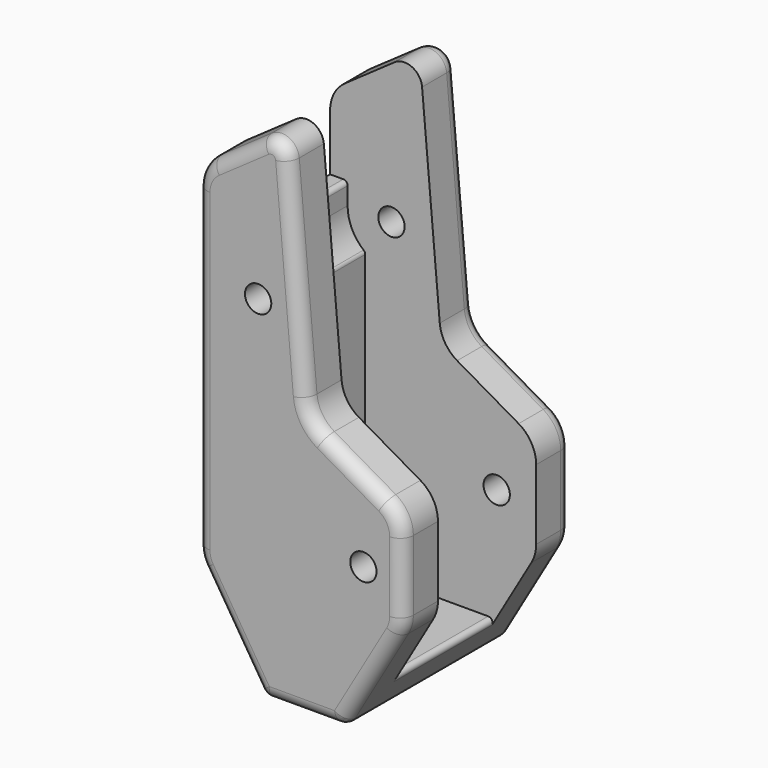
from build123d import *

# Parameters (mm, degrees)
SKETCH036_R     = 1.5
PAD021_DEPTH    = 24
FILLET007_R     = 1.5
POCKET013_DEPTH = 14
FILLET008_R     = 0.5


with BuildPart() as part:
    # Sketch036 → Pad021 (new body)
    with BuildSketch(Plane.XZ):
        with BuildLine():
            Line((-59.294306, 24.684125), (-53.647153, 28.638304))
            ThreePointArc((-50.507611, 27.174311), (-51.654763, 28.812616), (-53.647153, 28.638304))
            Line((-50.507611, 27.174311), (-48.491026, 4.124639))
            ThreePointArc((-48.491026, 4.124639), (-47.879813, 2.324063), (-46.506247, 1.00916))
            Line((-39.5, -3.035898), (-46.506247, 1.00916))
            ThreePointArc((-37.5, -6.5), (-38.035898, -4.5), (-39.5, -3.035898))
            Line((-37.5, -6.5), (-37.5, -14.5))
            ThreePointArc((-38.041032, -16.508866), (-37.637626, -15.540223), (-37.5, -14.5))
            Line((-38.041032, -16.508866), (-44.135258, -27.002216))
            ThreePointArc((-45, -27.5), (-44.501109, -27.366665), (-44.135258, -27.002216))
            Line((-45, -27.5), (-53, -27.5))
            ThreePointArc((-53.846615, -27.032205), (-53.483629, -27.375273), (-53, -27.5))
            Line((-53.846615, -27.032205), (-60.386462, -16.628821))
            ThreePointArc((-61, -14.5), (-60.843556, -15.607735), (-60.386462, -16.628821))
            Line((-61, -14.5), (-61, 21.407517))
            ThreePointArc((-59.294306, 24.684125), (-60.548043, 23.254511), (-61, 21.407517))
        make_face()
        with Locations((-54, 12.5)):
            Circle(SKETCH036_R, mode=Mode.SUBTRACT)
        with Locations((-42, -10.5)):
            Circle(SKETCH036_R, mode=Mode.SUBTRACT)
    extrude(amount=PAD021_DEPTH)

    # Fillet007
    fillet007_edges = [part.edges().sort_by_distance(p)[0] for p in [
        (-60.548043, 0, 23.254511),
        (-60.548043, -24, 23.254511),
    ]]
    fillet(fillet007_edges, radius=FILLET007_R)

    # Sketch037 (on Face12 of Fillet007) → Pocket013 (cut)
    with BuildSketch(Plane.XZ.offset(19)):
        with BuildLine():
            Line((-37.475618, -23.5), (-51.342359, -23.5))
            Line((-51.342359, -23.5), (-57, -14.5))
            Line((-57, -14.5), (-57, 8.5))
            ThreePointArc((-59, 12.5), (-58.472136, 10.263932), (-57, 8.5))
            Line((-59, 12.5), (-59, 15))
            Line((-59, 15), (-79, 15))
            Line((-79, 15), (-79, 35))
            Line((-79, 35), (-15.733307, 35))
            Line((-15.733307, 35), (-15.733307, -20.5))
            Line((-15.733307, -20.5), (-35.733307, -20.5))
            Line((-35.733307, -20.5), (-37.475618, -23.5))
        make_face()
    extrude(amount=-POCKET013_DEPTH, mode=Mode.SUBTRACT)

    # Fillet008
    fillet008_edges = [part.edges().sort_by_distance(p)[0] for p in [
        (-57, -12, 8.5),
        (-59, -12, 15),
        (-57, -12, -14.5),
        (-51.342359, -12, -23.5),
        (-42.101275, -12, -23.5),
    ]]
    fillet(fillet008_edges, radius=FILLET008_R)


with BuildPart() as part_1:
    # Body003 placement: moved
    add(part.part.moved(Location((0, 33, 0))))


solid = part_1.part
